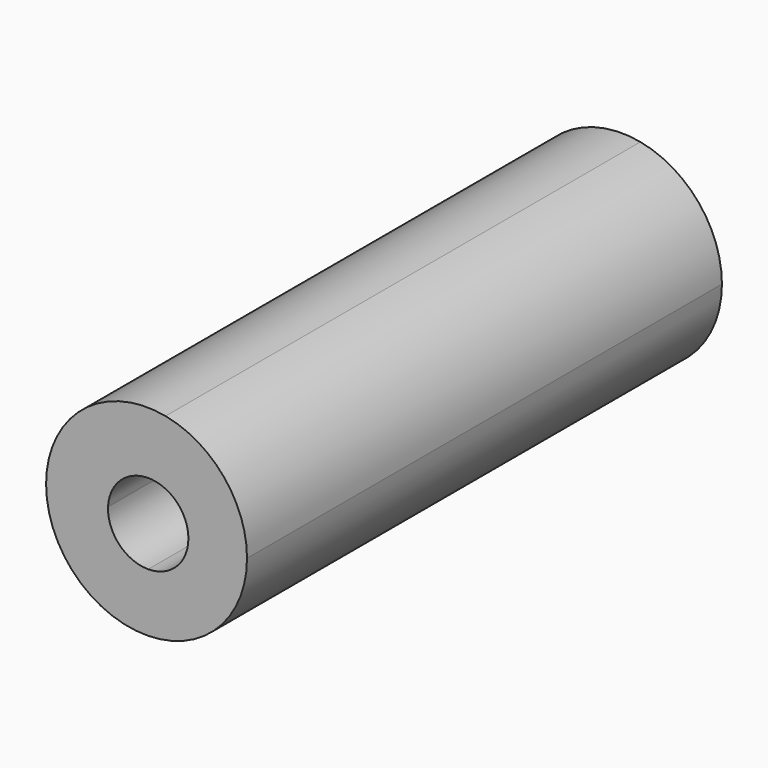
from build123d import *

# Parameters (mm, degrees)
F1_DEPTH = 75.039662


with BuildPart() as f1:
    # F0 (on Front) → F1 (new body)
    with BuildSketch(Plane.XZ):
        with BuildLine():
            Line((-32.266583, 20.745724), (-24.850886, 20.745724))
            ThreePointArc((-24.850886, 20.745724), (-27.760783, 28.835463), (-35.157008, 33.218068))
            Line((-35.157008, 33.218068), (-37.550886, 25.612847))
            ThreePointArc((-37.550886, 25.612847), (-33.900721, 24.2737), (-32.266583, 20.745724))
        make_face()
        with BuildLine():
            ThreePointArc((-37.342298, 8.047438), (-28.497183, 11.839521), (-24.850886, 20.745724))
            Line((-24.850886, 20.745724), (-32.266583, 20.745724))
            ThreePointArc((-32.266583, 20.745724), (-32.26337, 20.64145), (-32.262298, 20.537131))
            ThreePointArc((-32.262298, 20.537131), (-33.750196, 16.945029), (-37.342298, 15.457131))
            Line((-37.342298, 15.457131), (-37.342298, 8.047438))
        make_face()
        with BuildLine():
            Line((-37.550886, 25.612847), (-35.157008, 33.218068))
            ThreePointArc((-35.157008, 33.218068), (-45.640625, 30.535828), (-50.250886, 20.745724))
            Line((-50.250886, 20.745724), (-42.418014, 20.745724))
            ThreePointArc((-42.418014, 20.745724), (-40.934399, 24.129236), (-37.550886, 25.612847))
        make_face()
        with BuildLine():
            ThreePointArc((-50.250886, 20.745724), (-46.45709, 11.692022), (-37.342298, 8.047438))
            Line((-37.342298, 8.047438), (-37.342298, 15.457131))
            ThreePointArc((-37.342298, 15.457131), (-41.007408, 17.019551), (-42.418014, 20.745724))
            Line((-42.418014, 20.745724), (-50.250886, 20.745724))
        make_face()
    extrude(amount=-F1_DEPTH)


solid = f1.part
